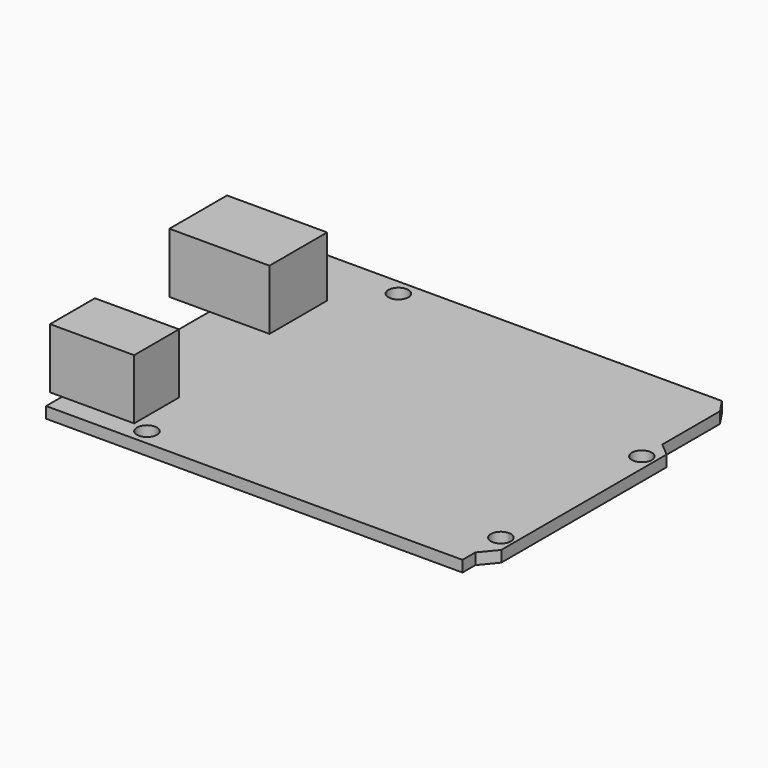
from build123d import *

# Parameters (mm, degrees)
F0_R     = 1.5875
F1_DEPTH = 1.778
F3_DEPTH = 9.525


with BuildPart() as f1:
    # F0 (on Top) → F1 (new body)
    with BuildSketch(Plane.XY):
        Polygon((32.018022109, 26.997238813), (-32.497977891, 26.997238813), (-32.497977891, -26.342761187), (-17.257977891, -26.342761187), (33.542022109, -26.342761187), (33.542022109, -23.802761187), (35.6338508427, -21.262761187), (35.6338508427, 11.503238813), (33.542022109, 13.2765648437), (33.542022109, 24.7065648437), align=None)
        with BuildLine():
            ThreePointArc((-16.940477891, -23.802761187), (-17.0219431553, -24.3047727655), (-17.257977891, -24.755261187))
            ThreePointArc((-17.257977891, -24.755261187), (-20.115477891, -23.802761187), (-17.257977891, -22.850261187))
            ThreePointArc((-17.257977891, -22.850261187), (-17.0219431553, -23.3007496084), (-16.940477891, -23.802761187))
        make_face(mode=Mode.SUBTRACT)
        with BuildLine():
            ThreePointArc((33.542022109, -17.135261187), (34.6645541242, -17.6002291718), (35.129522109, -18.722761187))
            ThreePointArc((35.129522109, -18.722761187), (32.4194900939, -19.8452932021), (33.542022109, -17.135261187))
        make_face(mode=Mode.SUBTRACT)
        with Locations((-17.257977891, 24.457238813)):
            Circle(F0_R, mode=Mode.SUBTRACT)
        with Locations((33.542022109, 9.217238813)):
            Circle(F0_R, mode=Mode.SUBTRACT)
    extrude(amount=F1_DEPTH)


with BuildPart() as f3:
    # F2 (on face) → F3 (new body)
    with BuildSketch(Plane.XY.offset(1.778)):
        Polygon((-38.8474246323, 6.042238813), (-32.4974246323, 6.042238813), (-23.153425312, 6.042238813), (-22.9724246323, 6.042238813), (-22.9724246323, 17.472238813), (-32.497977891, 17.472238813), (-38.8474246323, 17.472238813), align=None)
    extrude(amount=F3_DEPTH)


with BuildPart() as f3b:
    # F2 (on face) → F3, piece 2 (new body)
    with BuildSketch(Plane.XY.offset(1.778)):
        Polygon((-34.4030318546, -23.1734532863), (-32.4980318546, -23.1734532863), (-21.0680318546, -23.1734532863), (-21.0680318546, -14.2834532863), (-34.4030318546, -14.2834532863), align=None)
    extrude(amount=F3_DEPTH)


solid = Compound([f1.part, f3.part, f3b.part])
